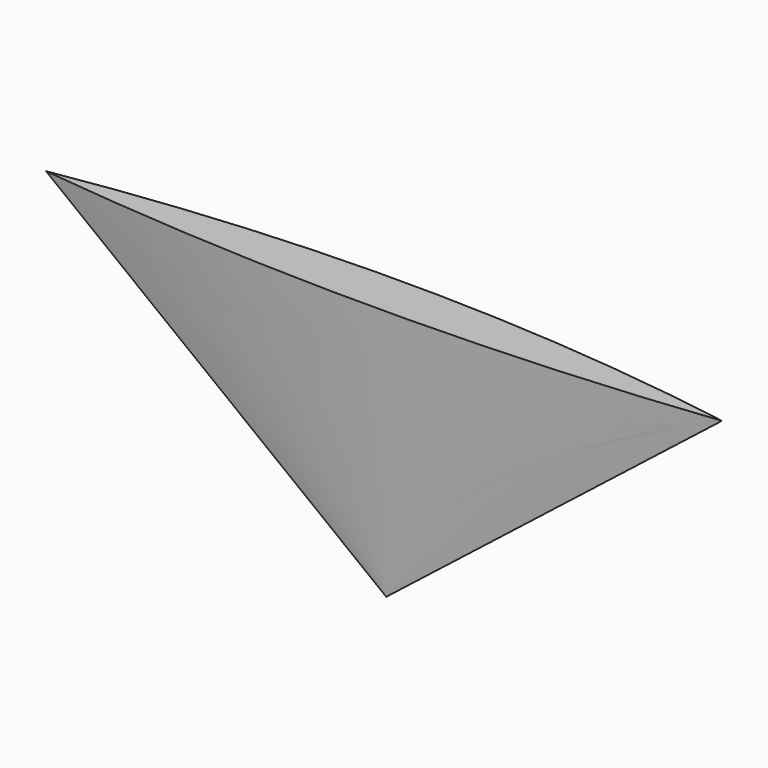
from build123d import *


with BuildPart() as f2:
    # F0 (on Top) → F2 section 0
    with BuildSketch(Plane.XY, mode=Mode.PRIVATE) as f2_s0:
        with BuildLine():
            ThreePointArc((42.736143, 0.414923), (-0.622399, 4.019699), (-43.980941, 0.414923))
            ThreePointArc((-43.980941, 0.414923), (-0.622399, -2.10497), (42.736143, 0.414923))
        make_face()
    loft([f2_s0.sketch, Vertex(-3e-05, 0, -33.608094)])


solid = f2.part
